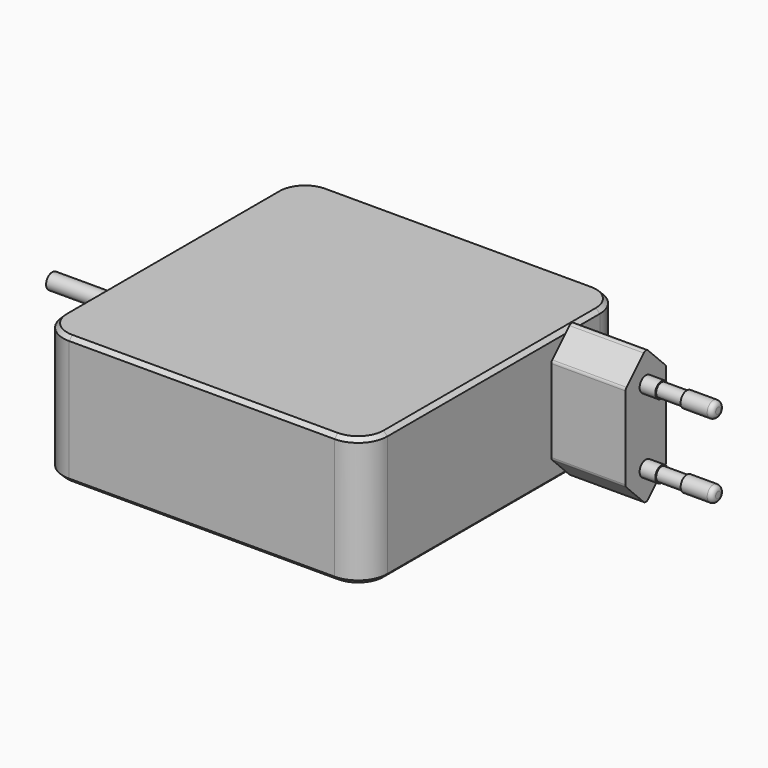
from build123d import *

# Parameters (mm, degrees)
SKETCH_W     = 83
SKETCH_H     = 83
PAD_DEPTH    = 16.5
FILLET_R     = 7.5
CHAMFER_SIZE = 1
PAD001_DEPTH = 19
FILLET001_R  = 1
SKETCH002_R  = 2
PAD002_DEPTH = 4
SKETCH003_R  = 1.7
PAD003_DEPTH = 6.5
SKETCH004_R  = 2
PAD004_DEPTH = 8
FILLET002_R  = 1.2
FILLET003_R  = 1.2
FILLET004_R  = 1
SKETCH005_R  = 2
PAD005_DEPTH = 15


with BuildPart() as part:
    # Sketch → Pad (new body, symmetric)
    with BuildSketch(Plane.XY):
        Rectangle(SKETCH_W, SKETCH_H)
    extrude(amount=PAD_DEPTH, both=True)

    # Fillet
    fillet_edges = [part.edges().sort_by_distance(p)[0] for p in [
        (41.5, -41.5, 0),
        (-41.5, -41.5, 0),
        (41.5, 41.5, 0),
        (-41.5, 41.5, 0),
    ]]
    fillet(fillet_edges, radius=FILLET_R)

    # Chamfer
    chamfer_edges = [part.edges().sort_by_distance(p)[0] for p in [
        (0, 41.5, 16.5),
        (-39.303301, 39.303301, 16.5),
        (-41.5, 0, 16.5),
        (41.5, 0, 16.5),
        (39.303301, 39.303301, 16.5),
        (-39.303301, -39.303301, 16.5),
        (0, -41.5, 16.5),
        (39.303301, -39.303301, 16.5),
        (39.303301, -39.303301, -16.5),
        (0, -41.5, -16.5),
        (-39.303301, -39.303301, -16.5),
        (-41.5, 0, -16.5),
        (41.5, 0, -16.5),
        (39.303301, 39.303301, -16.5),
        (0, 41.5, -16.5),
        (-39.303301, 39.303301, -16.5),
    ]]
    chamfer(chamfer_edges, length=CHAMFER_SIZE)

    # Sketch001 (on Face13 of Chamfer) → Pad001 (join)
    with BuildSketch(Plane.YZ.offset(41.5)):
        Polygon((18.5, 11), (18.5, -11), (25, -17.5), (31.5, -11), (31.5, 11), (25, 17.5), align=None)
    extrude(amount=PAD001_DEPTH)

    # Fillet001
    fillet001_edges = [part.edges().sort_by_distance(p)[0] for p in [
        (51, 31.5, 11),
        (51, 18.5, 11),
        (51, 25, 17.5),
        (51, 18.5, -11),
        (51, 25, -17.5),
        (51, 31.5, -11),
    ]]
    fillet(fillet001_edges, radius=FILLET001_R)

    # Sketch002 (on Face12 of Fillet001) → Pad002 (join)
    with BuildSketch(Plane.YZ.offset(60.5)):
        with Locations((25, 9.5)):
            Circle(SKETCH002_R)
        with Locations((25, -9.5)):
            Circle(SKETCH002_R)
    extrude(amount=PAD002_DEPTH)

    # Sketch003 (on Face43 of Pad002) → Pad003 (join)
    with BuildSketch(Plane.YZ.offset(64.5)):
        with Locations((25, 9.5)):
            Circle(SKETCH003_R)
        with Locations((25, -9.5)):
            Circle(SKETCH003_R)
    extrude(amount=PAD003_DEPTH)

    # Sketch004 (on Face50 of Pad003) → Pad004 (join)
    with BuildSketch(Plane.YZ.offset(71)):
        with Locations((25, 9.5)):
            Circle(SKETCH004_R)
        with Locations((25, -9.5)):
            Circle(SKETCH004_R)
    extrude(amount=PAD004_DEPTH)

    # Fillet002
    fillet002_edges = [part.edges().sort_by_distance(p)[0] for p in [
        (79, 23, 9.5),
    ]]
    fillet(fillet002_edges, radius=FILLET002_R)

    # Fillet003
    fillet003_edges = [part.edges().sort_by_distance(p)[0] for p in [
        (79, 23, -9.5),
    ]]
    fillet(fillet003_edges, radius=FILLET003_R)

    # Cone → Cone (revolve)
    with BuildSketch(Plane(origin=(-41.5, 0, 0), x_dir=(0, -1, 0), z_dir=(0, 0, -1))):
        Polygon((0, 0), (4, 0), (3, 15), (0, 15), align=None)
    revolve(axis=Axis((-41.5, 0, 0), (-1, 0, 0)))

    # Fillet004
    fillet004_edges = [part.edges().sort_by_distance(p)[0] for p in [
        (-56.5, 3, 0),
    ]]
    fillet(fillet004_edges, radius=FILLET004_R)

    # Sketch005 (on Face4 of Fillet004) → Pad005 (join)
    with BuildSketch(Plane(origin=(-56.5, 0, 0), x_dir=(0, -1, 0), z_dir=(-1, 0, 0))):
        Circle(SKETCH005_R)
    extrude(amount=PAD005_DEPTH)


solid = part.part
